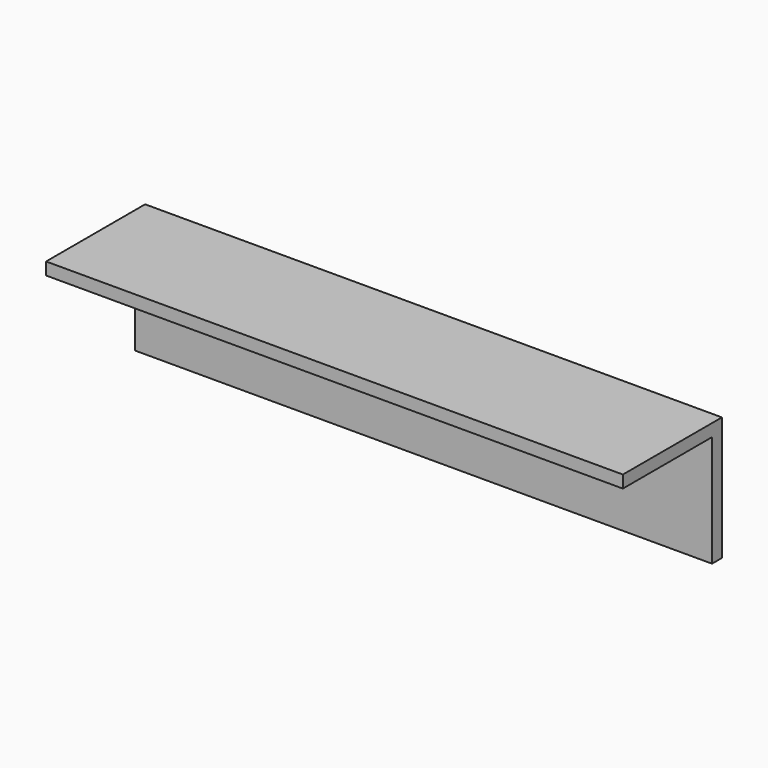
from build123d import *

# Parameters (mm, degrees)
PAD_DEPTH            = 372.752246
SKETCH001_R          = 7
POCKET_DEPTH         = 80.001
BODY_ROLL_ANGLE      = -90
BODY_PLACEMENT_ANGLE = 180


with BuildPart() as part:
    # Sketch → Pad (new body)
    with BuildSketch(Plane.YZ):
        Polygon((0, 0), (0, 80), (8, 80), (8, 8), (80, 8), (80, 0), align=None)
    extrude(amount=PAD_DEPTH)

    # Sketch001 (on Face6 of Pad) → Pocket (cut, through all)
    with BuildSketch(Plane.YX):
        with Locations((40, 332.752246)):
            Circle(SKETCH001_R)
    extrude(amount=-POCKET_DEPTH, mode=Mode.SUBTRACT)


with BuildPart() as part_1:
    # Body roll: moved
    add(part.part.rotate(Axis((0, 0, 0), (1, 0, 0)), BODY_ROLL_ANGLE))


with BuildPart() as part_2:
    # Body placement: moved
    add(part_1.part.moved(Location((-80, 80, 0))).rotate(Axis((-80, 80, 0), (0, 0, 1)), BODY_PLACEMENT_ANGLE))


solid = part_2.part
